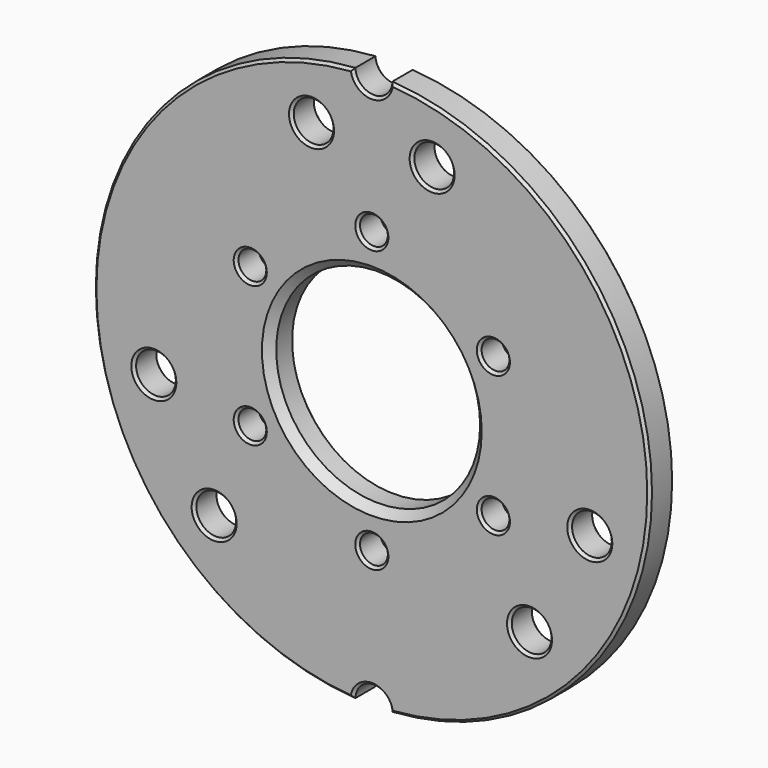
from build123d import *

# Parameters (mm, degrees)
F0_R     = 7.5
F0_R_2   = 5.25
F0_R_3   = 38.5
F1_DEPTH = 11.5
F2_SIZE2 = 1
F2_SIZE  = 1
F3_SIZE2 = 3
F3_SIZE  = 3
F4_SIZE2 = 1
F4_SIZE  = 1


with BuildPart() as f1:
    # F0 (on Front) → F1 (new body)
    with BuildSketch(Plane.XZ):
        with BuildLine():
            ThreePointArc((6.99611, 104.766667), (0, 98), (-6.99611, 104.766667))
            ThreePointArc((-6.99611, 104.766667), (-105, 0), (-6.99611, -104.766667))
            ThreePointArc((-6.99611, -104.766667), (0, -98), (6.99611, -104.766667))
            ThreePointArc((6.99611, -104.766667), (105, 0), (6.99611, 104.766667))
        make_face()
        with Locations((-59.534948, -60.667866)):
            Circle(F0_R, mode=Mode.SUBTRACT)
        with Locations((-82.307387, -21.224844)):
            Circle(F0_R, mode=Mode.SUBTRACT)
        with Locations((-45.899346, -26.5)):
            Circle(F0_R_2, mode=Mode.SUBTRACT)
        with Locations((0, -53)):
            Circle(F0_R_2, mode=Mode.SUBTRACT)
        with Locations((59.534948, -60.667866)):
            Circle(F0_R, mode=Mode.SUBTRACT)
        with Locations((45.899346, -26.5)):
            Circle(F0_R_2, mode=Mode.SUBTRACT)
        with Locations((82.307387, -21.224844)):
            Circle(F0_R, mode=Mode.SUBTRACT)
        with Locations((-45.899346, 26.5)):
            Circle(F0_R_2, mode=Mode.SUBTRACT)
        with Locations((-22.772439, 81.89271)):
            Circle(F0_R, mode=Mode.SUBTRACT)
        Circle(F0_R_3, mode=Mode.SUBTRACT)
        with Locations((45.899346, 26.5)):
            Circle(F0_R_2, mode=Mode.SUBTRACT)
        with Locations((0, 53)):
            Circle(F0_R_2, mode=Mode.SUBTRACT)
        with Locations((22.772439, 81.89271)):
            Circle(F0_R, mode=Mode.SUBTRACT)
    extrude(amount=F1_DEPTH)

    # F2
    f2_edges = [f1.edges().sort_by_distance(p)[0] for p in [
        (0, -11.5, 98),
        (105, -11.5, 0),
        (-105, -11.5, 0),
        (-30.272439, -11.5, 81.89271),
        (15.272439, -11.5, 81.89271),
        (-5.25, -11.5, 53),
        (40.649346, -11.5, 26.5),
        (40.649346, -11.5, -26.5),
        (74.807387, -11.5, -21.224844),
        (52.034948, -11.5, -60.667866),
        (-5.25, -11.5, -53),
        (-67.034948, -11.5, -60.667866),
        (-89.807387, -11.5, -21.224844),
        (-51.149346, -11.5, -26.5),
        (-51.149346, -11.5, 26.5),
        (0, -11.5, -98),
    ]]
    chamfer(f2_edges, length=F2_SIZE, length2=F2_SIZE2)

    # F3
    f3_edges = [f1.edges().sort_by_distance(p)[0] for p in [
        (-38.5, -11.5, 0),
    ]]
    chamfer(f3_edges, length=F3_SIZE, length2=F3_SIZE2)

    # F4
    f4_edges = [f1.edges().sort_by_distance(p)[0] for p in [
        (105, 0, 0),
        (-105, 0, 0),
        (0, 0, 98),
        (15.272439, 0, 81.89271),
        (-30.272439, 0, 81.89271),
        (-51.149346, 0, 26.5),
        (74.807387, 0, -21.224844),
        (40.649346, 0, 26.5),
        (40.649346, 0, -26.5),
        (-5.25, 0, -53),
        (-51.149346, 0, -26.5),
        (-89.807387, 0, -21.224844),
        (0, 0, -98),
        (-67.034948, 0, -60.667866),
        (52.034948, 0, -60.667866),
        (-5.25, 0, 53),
        (-38.5, 0, 0),
    ]]
    chamfer(f4_edges, length=F4_SIZE, length2=F4_SIZE2)


solid = f1.part
